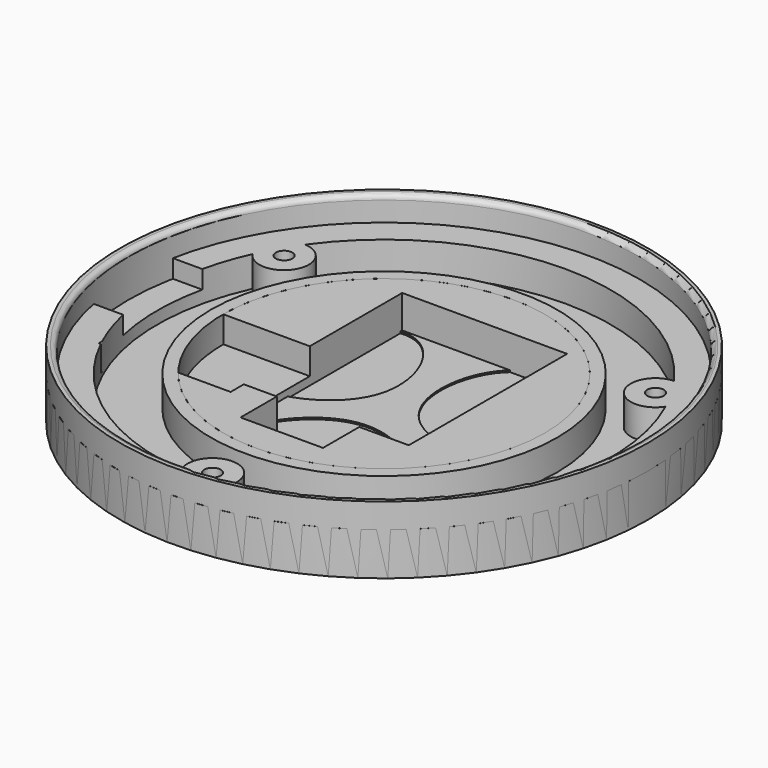
from build123d import *

# Parameters (mm, degrees)
TUBE001_R         = 3
TUBE001_R_2       = 1
TUBE001_DEPTH     = 5.2
ARRAY_COUNT       = 3
BOX003_W          = 16
BOX003_H          = 12
BOX003_DEPTH      = 10
BOX002_W          = 10
BOX002_H          = 12
BOX002_DEPTH      = 10
TUBE_R            = 27.5
TUBE_R_2          = 19.5
TUBE_DEPTH        = 7
BOX001_W          = 10
BOX001_H          = 6
BOX001_DEPTH      = 5
BOX_W             = 20
BOX_H             = 24
BOX_DEPTH         = 5
CYLINDER_R        = 32
CYLINDER_DEPTH    = 5.2
EXTRUDE001_DEPTH  = 5
ARRAY003_COUNT    = 12
EXTRUDE_DEPTH     = 2
ARRAY002_COUNT    = 3
TUBE002_R         = 32
TUBE002_R_2       = 31
TUBE002_DEPTH     = 8.2
CYLINDER002_R     = 1
CYLINDER002_DEPTH = 2
ARRAY001_COUNT    = 3
CYLINDER001_R     = 32
CYLINDER001_DEPTH = 1.2
TUBE003_R         = 21
TUBE003_R_2       = 19.5
TUBE003_DEPTH     = 5.2
FILLET_R          = 0.6
FILLET001_R       = 0.6


with BuildPart() as screws:
    # Tube001 → Tube001 (new body)
    with BuildSketch(Plane(origin=(0, -26, 0), x_dir=(1, 0, 0), z_dir=(0, 0, 1))):
        Circle(TUBE001_R)
        Circle(TUBE001_R_2, mode=Mode.SUBTRACT)
    extrude(amount=TUBE001_DEPTH)

    # Array: screws ×3 about axis
    array_axis = Axis((0, 0, 0), (0, 0, 1))


with BuildPart() as screws_1:
    add(screws.part)
    for i in range(1, ARRAY_COUNT):
        add(screws.part.rotate(array_axis, i * 360 / ARRAY_COUNT))


with BuildPart() as pwr5:
    # Box003 → Box003 (new body)
    with BuildSketch(Plane(origin=(-25, -12, 2), x_dir=(1, 0, 0), z_dir=(0, 0, 1))):
        with Locations((8, 6)):
            Rectangle(BOX003_W, BOX003_H)
    extrude(amount=BOX003_DEPTH)


with BuildPart() as power:
    # Box002 → Box002 (new body)
    with BuildSketch(Plane(origin=(-36, -6, 3), x_dir=(1, 0, 0), z_dir=(0, 0, 1))):
        with Locations((5, 6)):
            Rectangle(BOX002_W, BOX002_H)
    extrude(amount=BOX002_DEPTH)


with BuildPart() as tube:
    # Tube → Tube (new body)
    with BuildSketch(Plane.XY.offset(1.5)):
        Circle(TUBE_R)
        Circle(TUBE_R_2, mode=Mode.SUBTRACT)
    extrude(amount=TUBE_DEPTH)


with BuildPart() as usb:
    # Box001 → Box001 (new body)
    with BuildSketch(Plane(origin=(4, -5.5, 0), x_dir=(1, 0, 0), z_dir=(0, 0, 1))):
        with Locations((5, 3)):
            Rectangle(BOX001_W, BOX001_H)
    extrude(amount=BOX001_DEPTH)


with BuildPart() as esp:
    # Box → Box (new body)
    with BuildSketch(Plane.XY):
        with Locations((10, 12)):
            Rectangle(BOX_W, BOX_H)
    extrude(amount=BOX_DEPTH)

    # Fusion: union usb
    add(usb.part)


with BuildPart() as esp_1:
    # Fusion placement: moved
    add(esp.part.moved(Location((-9, -10, 1))))


with BuildPart() as obj1:
    # Cylinder → Cylinder (new body)
    with BuildSketch(Plane.XY):
        Circle(CYLINDER_R)
    extrude(amount=CYLINDER_DEPTH)

    # Cut: cut ESP
    add(esp_1.part, mode=Mode.SUBTRACT)

    # Cut001: cut Tube
    add(tube.part, mode=Mode.SUBTRACT)

    # Cut002: cut power
    add(power.part, mode=Mode.SUBTRACT)

    # Cut003: cut pwr5
    add(pwr5.part, mode=Mode.SUBTRACT)

    # Fusion001: union screws
    add(screws_1.part)


with BuildPart() as array003:
    # Sketch001 (on Face11 of Cut005) → Extrude001 (new body)
    with BuildSketch(Plane.XY.offset(1.2)):
        with BuildLine():
            add(Edge.make_bspline(
                [(17.586725, 18.542601), (12.803366, 18.129175), (12.227945, 18.947033), (18.752066, 21.934665), (27.447461, 13.643766), (17.586725, 18.542601)],
                knots=[0, 0, 0, 0, 0.333333, 0.666667, 1, 1, 1, 1], degree=3))
        make_face()
    extrude(amount=EXTRUDE001_DEPTH)


with BuildPart() as array003_1:
    # Extrude001 placement: moved
    add(array003.part.moved(Location((0, 0, -2))))

    # Array003: Array003 ×12 about axis
    array003_axis = Axis((0, 0, 0), (0, 0, 1))


with BuildPart() as array003_2:
    add(array003_1.part)
    for i in range(1, ARRAY003_COUNT):
        add(array003_1.part.rotate(array003_axis, i * 360 / ARRAY003_COUNT))


with BuildPart() as array002:
    # Sketch (on Face16 of Fusion003) → Extrude (new body)
    with BuildSketch(Plane.XY.offset(1.2)):
        with BuildLine():
            add(Edge.make_bspline(
                [(11.125639, 13.670908), (25.179792, -2.607643), (-6.871766, -7.05644), (3.138026, 19.73745), (11.125639, 13.670908)],
                knots=[0, 0, 0, 0, 0.5, 1, 1, 1, 1], degree=3))
        make_face()
    extrude(amount=EXTRUDE_DEPTH)


with BuildPart() as array002_1:
    # Extrude placement: moved
    add(array002.part.moved(Location((0, 0, -2))))

    # Array002: Array002 ×3 about axis
    array002_axis = Axis((0, 0, 0), (0, 0, 1))


with BuildPart() as array002_2:
    add(array002_1.part)
    for i in range(1, ARRAY002_COUNT):
        add(array002_1.part.rotate(array002_axis, i * 360 / ARRAY002_COUNT))


with BuildPart() as extwall:
    # Tube002 → Tube002 (new body)
    with BuildSketch(Plane.XY):
        Circle(TUBE002_R)
        Circle(TUBE002_R_2, mode=Mode.SUBTRACT)
    extrude(amount=TUBE002_DEPTH)


with BuildPart() as array001:
    # Cylinder002 → Cylinder002 (new body)
    with BuildSketch(Plane(origin=(0, -26, 0), x_dir=(1, 0, 0), z_dir=(0, 0, 1))):
        Circle(CYLINDER002_R)
    extrude(amount=CYLINDER002_DEPTH)

    # Array001: Array001 ×3 about axis
    array001_axis = Axis((0, 0, 0), (0, 0, 1))


with BuildPart() as array001_1:
    add(array001.part)
    for i in range(1, ARRAY001_COUNT):
        add(array001.part.rotate(array001_axis, i * 360 / ARRAY001_COUNT))


with BuildPart() as cut004:
    # Cylinder001 → Cylinder001 (new body)
    with BuildSketch(Plane.XY):
        Circle(CYLINDER001_R)
    extrude(amount=CYLINDER001_DEPTH)

    # Cut004: cut Array001
    add(array001_1.part, mode=Mode.SUBTRACT)


with BuildPart() as fusion002:
    # Fusion002 base: copy of Cut004
    add(cut004.part)

    # Fusion002: union extWall
    add(extwall.part)


with BuildPart() as intwall:
    # Tube003 → Tube003 (new body)
    with BuildSketch(Plane.XY):
        Circle(TUBE003_R)
        Circle(TUBE003_R_2, mode=Mode.SUBTRACT)
    extrude(amount=TUBE003_DEPTH)


with BuildPart() as ledcap:
    # Fusion003 base: copy of Cut004
    add(cut004.part)

    # Fusion003: union extWall, Fusion002, intWall
    add(extwall.part)
    add(fusion002.part)
    add(intwall.part)

    # Cut005: cut Array002
    add(array002_2.part, mode=Mode.SUBTRACT)

    # Cut006: cut Array003
    add(array003_2.part, mode=Mode.SUBTRACT)

    # Fillet
    fillet_edges = [ledcap.edges().sort_by_distance(p)[0] for p in [
        (-31, 0, 8.2),
    ]]
    fillet(fillet_edges, radius=FILLET_R)

    # Fillet001
    fillet001_edges = [ledcap.edges().sort_by_distance(p)[0] for p in [
        (-19.5, 0, 1.2),
    ]]
    fillet(fillet001_edges, radius=FILLET001_R)


solid = Compound([obj1.part, ledcap.part])
